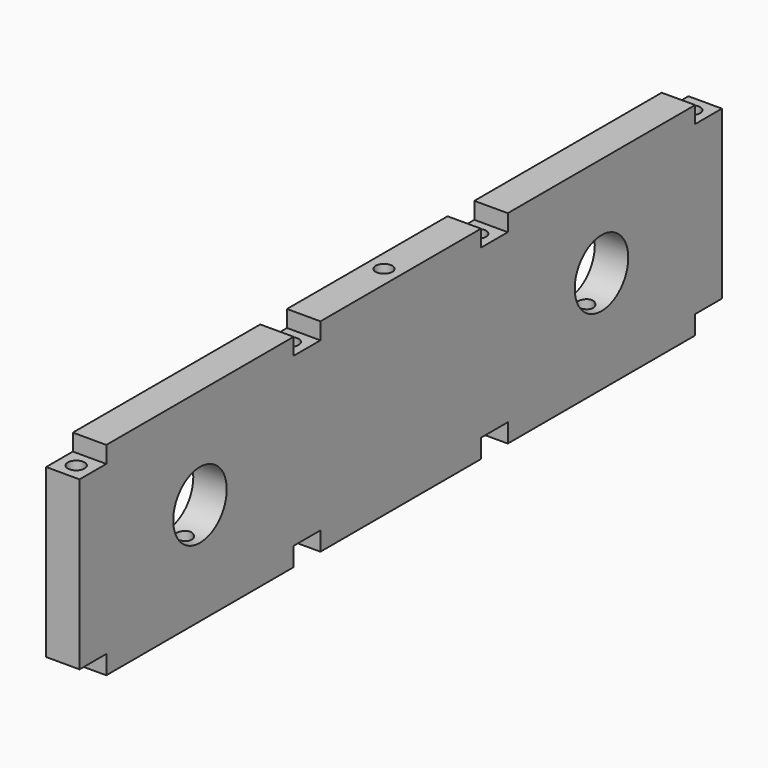
from build123d import *

# Parameters (mm, degrees)
F0_W      = 609.6
F0_H      = 153.9875
F1_DEPTH  = 25.4
F2_W      = 25.4
F2_H      = 12.7
F2_H_2    = 15.875
F3_DEPTH  = 25.4
F7_R      = 6.35
F6_R      = 6.35
F5_R      = 6.35
F4_R      = 6.35
F8_DEPTH  = 177.8
F9_DEPTH  = 1.5875
F12_R     = 6.35
F11_R     = 6.35
F10_R     = 6.35
F13_DEPTH = 177.8
F14_R     = 25.4
F15_DEPTH = 25.4
F16_DEPTH = 76.2
F17_DEPTH = 25.4


with BuildPart() as f1:
    # F0 (on Right) → F1 (new body)
    with BuildSketch(Plane.YZ):
        with Locations((-3.2007116824, -133.0477804439)):
            Rectangle(F0_W, F0_H)
    extrude(amount=F1_DEPTH)

    # F2 (on face) → F3 (cut)
    with BuildSketch(Plane.YZ.offset(25.4)):
        with Locations((-295.3007116824, -62.4040304439)):
            Rectangle(F2_W, F2_H)
        with Locations((-295.3007116824, -202.1040304439)):
            Rectangle(F2_W, F2_H_2)
        with Locations((-92.1007116824, -202.1040304439)):
            Rectangle(F2_W, F2_H_2)
        with Locations((-92.1007116824, -62.4040304439)):
            Rectangle(F2_W, F2_H)
        with Locations((85.6992883176, -62.4040304439)):
            Rectangle(F2_W, F2_H)
        with Locations((85.6992883176, -202.1040304439)):
            Rectangle(F2_W, F2_H_2)
        with Locations((288.8992883176, -62.4040304439)):
            Rectangle(F2_W, F2_H)
        with Locations((288.8992883176, -202.1040304439)):
            Rectangle(F2_W, F2_H_2)
    extrude(amount=-F3_DEPTH, mode=Mode.SUBTRACT)

    # F7 (on face) + F6 (on face) + F5 (on face) + F4 (on face) → F8 (cut)
    with BuildSketch(Plane.XY.offset(-68.7540304439)):
        with Locations((12.7, 288.8992883176)):
            Circle(F7_R)
    with BuildSketch(Plane.XY.offset(-68.7540304439)):
        with Locations((12.7, 85.6992883176)):
            Circle(F6_R)
    with BuildSketch(Plane.XY.offset(-68.7540304439)):
        with Locations((12.7, -92.1007116824)):
            Circle(F5_R)
    with BuildSketch(Plane.XY.offset(-68.7540304439)):
        with Locations((12.7, -295.3007116824)):
            Circle(F4_R)
    extrude(amount=-F8_DEPTH, mode=Mode.SUBTRACT)

    # F9 (add): faces of the model
    f9_faces = [f1.faces().sort_by_distance(p)[0] for p in [
        (12.7, -282.9599219273, -194.1665304439),
        (12.7, -79.7599219273, -194.1665304439),
        (12.7, 98.0400780727, -194.1665304439),
        (12.7, 301.2400780727, -194.1665304439),
    ]]
    extrude(f9_faces, amount=F9_DEPTH)

    # F12 (on face) + F11 (on face) + F10 (on face) → F13 (cut)
    with BuildSketch(Plane.XY.offset(-56.0540304439)):
        with Locations((12.7, -193.7007116824)):
            Circle(F12_R)
    with BuildSketch(Plane.XY.offset(-56.0540304439)):
        with Locations((12.7, -3.2007116824)):
            Circle(F11_R)
    with BuildSketch(Plane.XY.offset(-56.0540304439)):
        with Locations((12.7, 187.2992883176)):
            Circle(F10_R)
    extrude(amount=-F13_DEPTH, mode=Mode.SUBTRACT)

    # F14 (on face) → F15 (cut)
    with BuildSketch(Plane.YZ.offset(25.4)):
        with Locations((-193.7007116824, -132.2540304439)):
            Circle(F14_R)
        with Locations((187.2992883176, -132.2540304439)):
            Circle(F14_R)
    extrude(amount=-F15_DEPTH, mode=Mode.SUBTRACT)

    # F12 (on face) + F10 (on face) → F16 (join)
    with BuildSketch(Plane.XY.offset(-56.0540304439)):
        with Locations((12.7, -193.7007116824)):
            Circle(F12_R)
    with BuildSketch(Plane.XY.offset(-56.0540304439)):
        with Locations((12.7, 187.2992883176)):
            Circle(F10_R)
    extrude(amount=-F16_DEPTH)

    # F14 (on face) → F17 (cut)
    with BuildSketch(Plane.YZ.offset(25.4)):
        with Locations((-193.7007116824, -132.2540304439)):
            Circle(F14_R)
        with Locations((187.2992883176, -132.2540304439)):
            Circle(F14_R)
    extrude(amount=-F17_DEPTH, mode=Mode.SUBTRACT)


solid = f1.part
